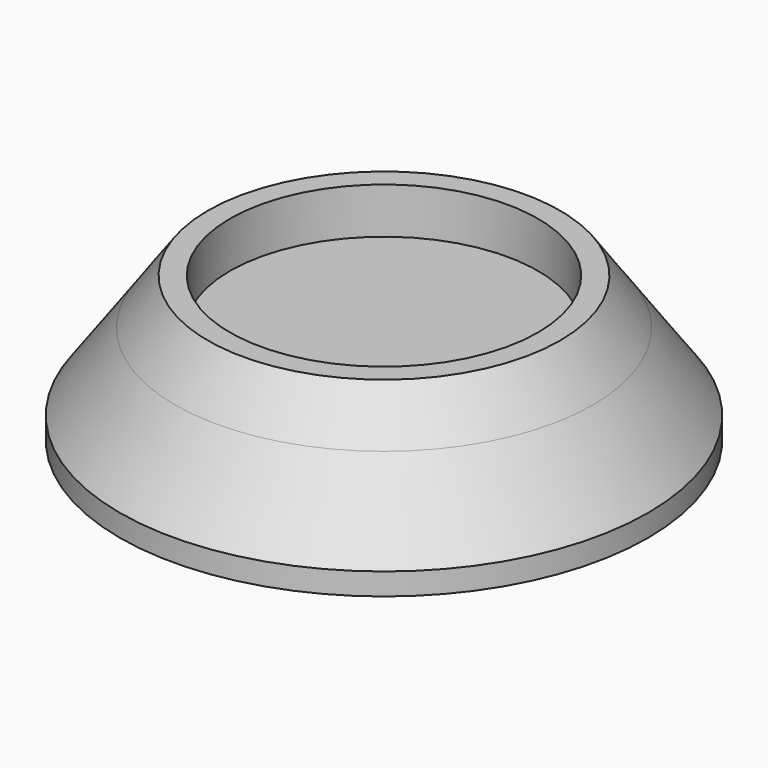
from build123d import *


with BuildPart() as f2:
    # F1 (on Front) → F2 (revolve)
    with BuildSketch(Plane.XZ):
        Polygon((22.225, 0), (0, 0), (0, -14.2875), (38.1, -14.2875), (38.1, -11.1125), (30.146081, 0), align=None)
        Polygon((22.225, 6.630798), (22.225, 0), (30.146081, 0), (25.4, 6.630798), align=None)
    revolve(axis=Axis((0, 0, -7.14375), (0, 0, 1)))


solid = f2.part
